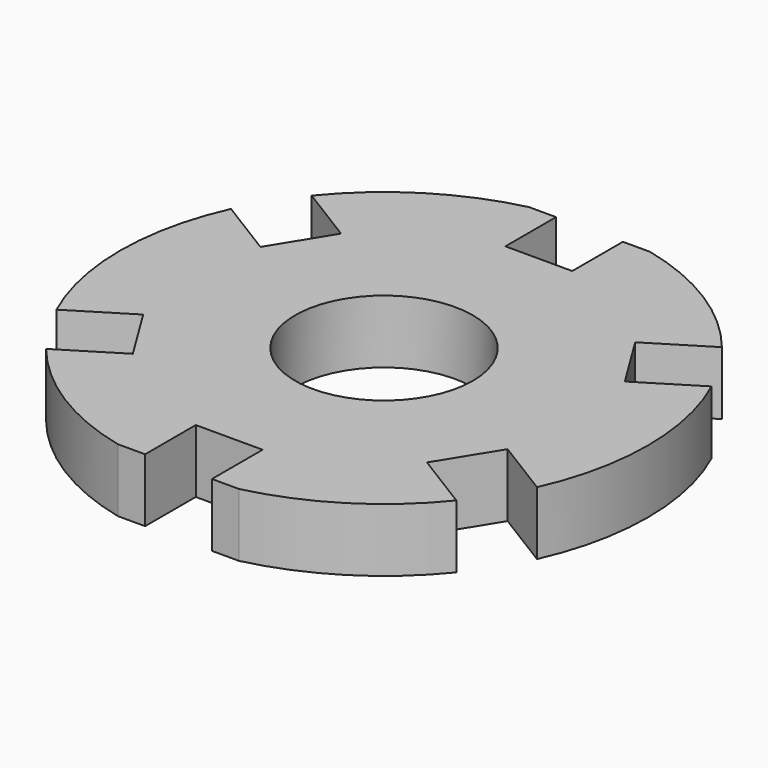
from build123d import *

# Parameters (mm, degrees)
F0_R     = 25.25
F1_DEPTH = 18


with BuildPart() as f1:
    # F0 (on Top) → F1 (new body)
    with BuildSketch(Plane.XY):
        with BuildLine():
            Line((-9.5, 73), (-17.204651, 73))
            ThreePointArc((-17.204651, 73), (-39.901712, 63.504751), (-58.304878, 47.175642))
            Line((-58.304878, 47.175642), (-41.80263, 36.983646))
            Line((-41.80263, 36.983646), (-51.786592, 20.818235))
            Line((-51.786592, 20.818235), (-68.288839, 31.010231))
            ThreePointArc((-68.288839, 31.010231), (-75, 0), (-68.288839, -31.010231))
            Line((-68.288839, -31.010231), (-51.786592, -20.818235))
            Line((-51.786592, -20.818235), (-41.80263, -36.983646))
            Line((-41.80263, -36.983646), (-58.304878, -47.175642))
            ThreePointArc((-58.304878, -47.175642), (-39.901712, -63.504751), (-17.204651, -73))
            Line((-17.204651, -73), (-9.5, -73))
            Line((-9.5, -73), (-9.5, -55))
            Line((-9.5, -55), (9.5, -55))
            Line((9.5, -55), (9.5, -73))
            Line((9.5, -73), (17.204651, -73))
            ThreePointArc((17.204651, -73), (39.901712, -63.504751), (58.304878, -47.175642))
            Line((58.304878, -47.175642), (41.80263, -36.983646))
            Line((41.80263, -36.983646), (51.786592, -20.818235))
            Line((51.786592, -20.818235), (68.288839, -31.010231))
            ThreePointArc((68.288839, -31.010231), (75, 0), (68.288839, 31.010231))
            Line((68.288839, 31.010231), (51.786592, 20.818235))
            Line((51.786592, 20.818235), (41.80263, 36.983646))
            Line((41.80263, 36.983646), (58.304878, 47.175642))
            ThreePointArc((58.304878, 47.175642), (39.901712, 63.504751), (17.204651, 73))
            Line((17.204651, 73), (9.5, 73))
            Line((9.5, 73), (9.5, 55))
            Line((9.5, 55), (-9.5, 55))
            Line((-9.5, 55), (-9.5, 73))
        make_face()
        Circle(F0_R, mode=Mode.SUBTRACT)
    extrude(amount=F1_DEPTH)


solid = f1.part
